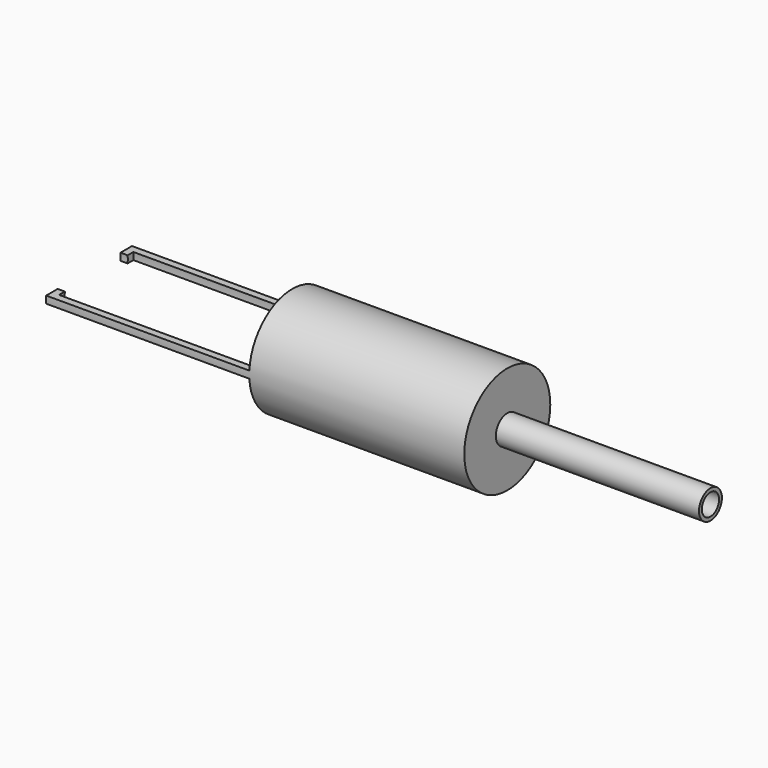
from build123d import *

# Parameters (mm, degrees)
F0_R     = 19.05
F1_DEPTH = 148.2
F4_W     = 101.6
F4_H     = 31.79568
F5_DEPTH = 25.4
F6_R     = 5.08
F7_DEPTH = 72
F8_R     = 3.81
F9_DEPTH = 152.4


with BuildPart() as f1:
    # F0 (on Right) → F1 (new body)
    with BuildSketch(Plane.YZ):
        Circle(F0_R)
    extrude(amount=-F1_DEPTH)

    # F2 (on Front) → F3 (revolve, cut)
    with BuildSketch(Plane.XZ):
        with BuildLine():
            ThreePointArc((-8.89, -16.51), (-4.182231, -8.844527), (-2.54, 0))
            Line((-2.54, 0), (-8.89, 0))
            Line((-8.89, 0), (-8.89, -16.51))
        make_face()
        Polygon((-8.89, -16.51), (-8.89, 0), (-148.2, 0), (-148.2, -13.97), (-145.66, -13.97), (-145.66, -16.51), (-76.2, -16.51), align=None)
    revolve(axis=Axis((-78.545, 0, 0), (-1, 0, 0)), mode=Mode.SUBTRACT)

    # F4 (on Front) → F5 (cut, symmetric)
    with BuildSketch(Plane.XZ):
        Polygon((-177.8, 1.27), (-76.2, 1.27), (-76.2, 26.052563), (-178.992286, 26.052563), align=None)
        with Locations((-127, -17.16784)):
            Rectangle(F4_W, F4_H)
    extrude(amount=F5_DEPTH, both=True, mode=Mode.SUBTRACT)

    # F6 (on face) → F7 (join)
    with BuildSketch(Plane.YZ):
        Circle(F6_R)
    extrude(amount=F7_DEPTH)

    # F8 (on face) → F9 (cut)
    with BuildSketch(Plane.YZ.offset(72)):
        Circle(F8_R)
    extrude(amount=-F9_DEPTH, mode=Mode.SUBTRACT)


solid = f1.part
